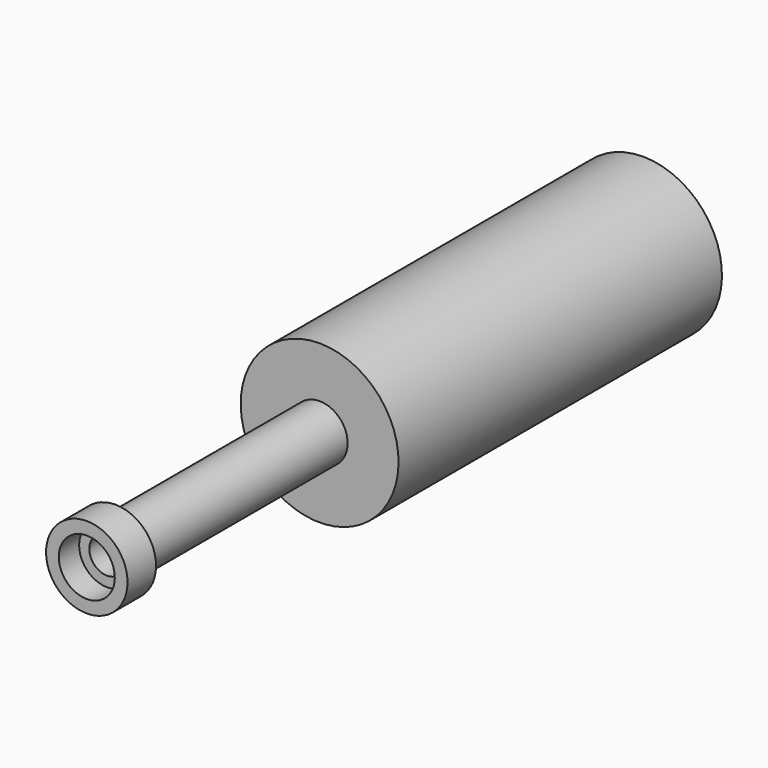
from build123d import *


with BuildPart() as f1:
    # F0 (on Right) → F1 (revolve)
    with BuildSketch(Plane.YZ):
        Polygon((0, 0), (0, 37.678093), (-193.035349, 37.678093), (-193.035349, 13.369647), (-193.035349, 8.507957), (-193.035349, 0), align=None)
        Polygon((-193.035349, 8.507957), (-193.035349, 13.369647), (-314.982742, 13.369647), (-314.982742, 19.446759), (-331.998646, 19.446759), (-331.998646, 13.369647), (-319.844425, 13.369647), (-319.844425, 8.507957), align=None)
    revolve(axis=Axis((0, -267.378695, 0), (0, -1, 0)))


solid = f1.part
